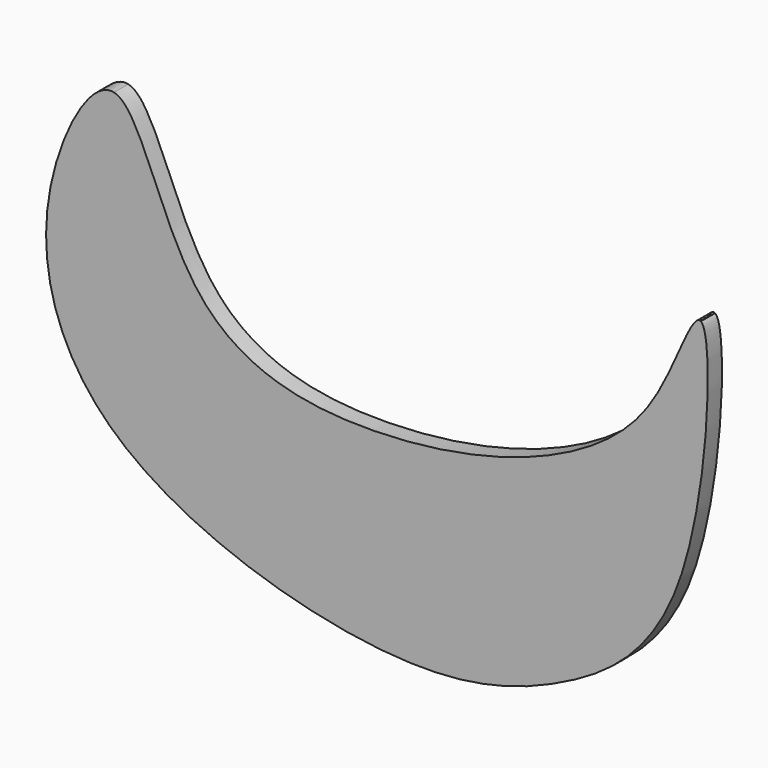
from build123d import *

# Parameters (mm, degrees)
F1_DEPTH = 0.508


with BuildPart() as f1:
    # F0 (on Front) → F1 (new body)
    with BuildSketch(Plane.XZ):
        with BuildLine():
            add(Edge.make_bspline(
                [(-51.2491725385, 55.6353479624), (-50.8763662332, 55.3822355251), (-51.1105697194, 47.9211229415), (-55.0972442125, 45.0528539609), (-59.7464211793, 43.737690822), (-68.9136530576, 46.4635419171), (-70.6333707674, 52.4263488922), (-68.6545284769, 56.0893528247), (-67.9889842868, 55.9397041798)],
                knots=[0.439431978, 0.439431978, 0.439431978, 0.439431978, 0.5416215085, 0.6293444424, 0.7143809594, 0.8310458383, 0.9257517784, 1, 1, 1, 1], degree=3))
            add(Edge.make_bspline(
                [(-51.2491725385, 55.6353479624), (-51.2744394141, 55.6373283491), (-51.2813228992, 55.6409904535), (-51.2720090543, 55.6460635955)],
                knots=[0, 0, 0, 0, 0.0333752624, 0.0333752624, 0.0333752624, 0.0333752624], degree=3))
            add(Edge.make_bspline(
                [(-67.9889842868, 55.9397041798), (-67.2063915495, 55.7637369872), (-66.1908038632, 50.4697110357), (-60.6609834106, 49.5261149059), (-55.8351171284, 50.4683926678), (-52.8968506861, 52.3825774353), (-51.9894792641, 54.4365262072), (-51.4226281453, 55.6872197206), (-51.2720090543, 55.6460635955)],
                knots=[0, 0, 0, 0, 0.0873061772, 0.1771828613, 0.2649057628, 0.336412637, 0.3981474066, 0.4373985976, 0.4373985976, 0.4373985976, 0.4373985976], degree=3))
        make_face()
    extrude(amount=-F1_DEPTH)


solid = f1.part
